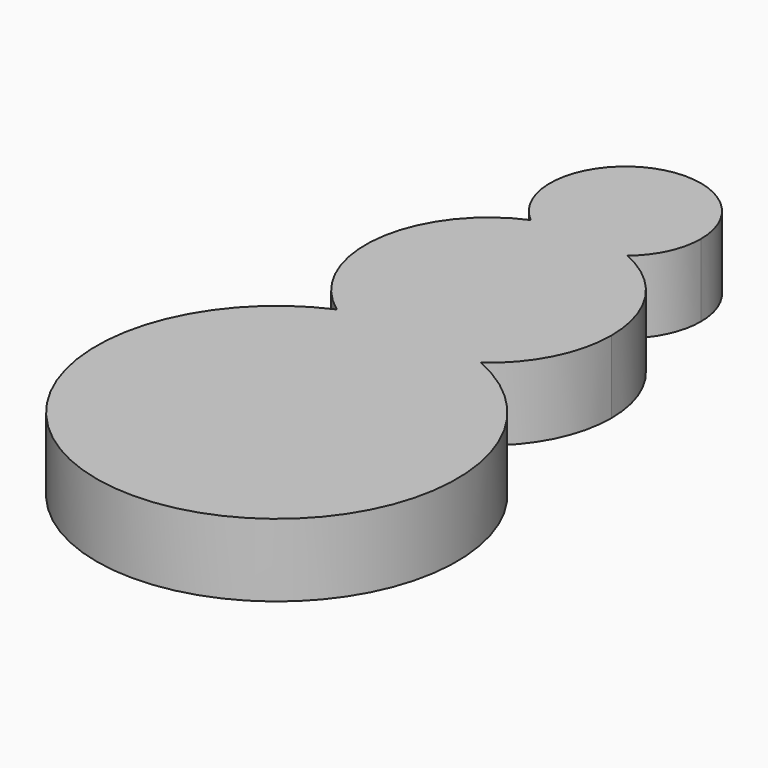
from build123d import *

# Parameters (mm, degrees)
F1_DEPTH = 25.4


with BuildPart() as f1:
    # F0 (on Top) → F1 (new body)
    with BuildSketch(Plane.XY):
        with BuildLine():
            ThreePointArc((-25.1341786331, 57.6401427844), (-34.4501970658, -52.6051035347), (62.8817381739, 0))
            ThreePointArc((62.8817381739, 0), (52.6051035347, 34.4501970658), (25.1341786331, 57.6401427844))
            ThreePointArc((25.1341786331, 57.6401427844), (0, 49.5070609437), (-25.1341786331, 57.6401427844))
        make_face()
        with BuildLine():
            ThreePointArc((-25.1341786331, 57.6401427844), (0, 49.5070609437), (25.1341786331, 57.6401427844))
            ThreePointArc((25.1341786331, 57.6401427844), (0, 62.8817381739), (-25.1341786331, 57.6401427844))
        make_face()
        with BuildLine():
            ThreePointArc((-25.1341786331, 57.6401427844), (0, 62.8817381739), (25.1341786331, 57.6401427844))
            ThreePointArc((25.1341786331, 57.6401427844), (38.2036975454, 72.8866323384), (42.903414072, 92.4104750156))
            ThreePointArc((42.903414072, 92.4104750156), (35.7979520386, 116.0580873449), (16.8351124708, 131.8728865883))
            ThreePointArc((16.8351124708, 131.8728865883), (0, 125.7917189434), (-16.8351124708, 131.8728865883))
            ThreePointArc((-16.8351124708, 131.8728865883), (-42.6377815101, 97.1772901923), (-25.1341786331, 57.6401427844))
        make_face()
        with BuildLine():
            ThreePointArc((26.3437575266, 152.13547647), (-11.1913680968, 175.9838902692), (-16.8351124708, 131.8728865883))
            ThreePointArc((-16.8351124708, 131.8728865883), (0, 135.3138890876), (16.8351124708, 131.8728865883))
            ThreePointArc((16.8351124708, 131.8728865883), (23.8484137992, 140.9441083732), (26.3437575266, 152.13547647))
        make_face()
        with BuildLine():
            ThreePointArc((16.8351124708, 131.8728865883), (0, 135.3138890876), (-16.8351124708, 131.8728865883))
            ThreePointArc((-16.8351124708, 131.8728865883), (0, 125.7917189434), (16.8351124708, 131.8728865883))
        make_face()
    extrude(amount=F1_DEPTH)


solid = f1.part
